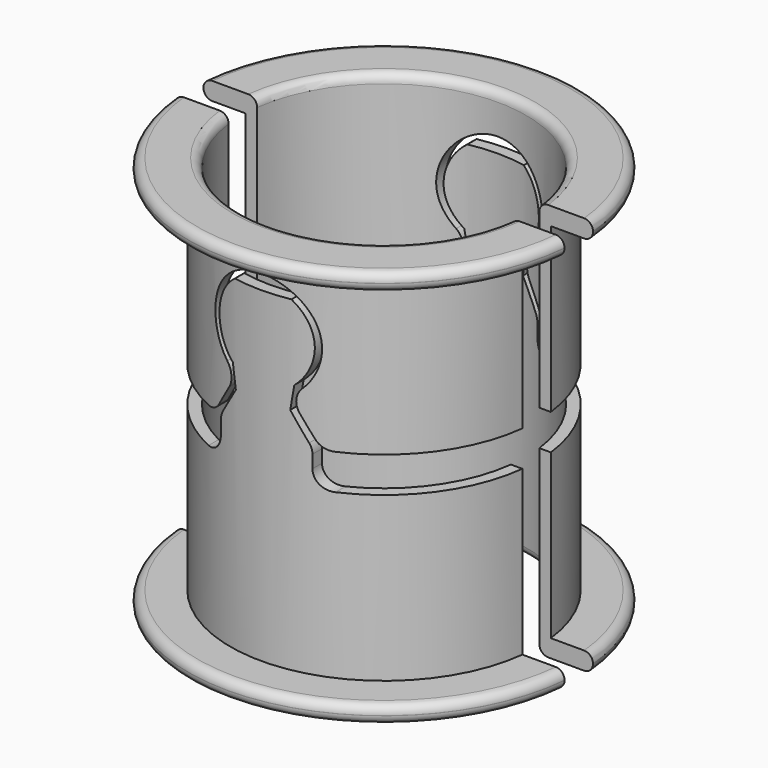
from build123d import *

# Parameters (mm, degrees)
F2_W     = 50.8
F2_H     = 3.175
F3_DEPTH = 25.4
F5_DEPTH = 25.4


with BuildPart() as f1:
    # F0 (on Right) → F1 (revolve)
    with BuildSketch(Plane.YZ):
        with BuildLine():
            ThreePointArc((-12.7, 16.9926), (-12.930624, 17.549376), (-13.4874, 17.78))
            Line((-13.4874, 17.78), (-16.6751, 17.78))
            ThreePointArc((-16.6751, 17.78), (-17.231876, 17.549376), (-17.4625, 16.9926))
            Line((-17.4625, 16.9926), (-17.4625, 16.9799))
            ThreePointArc((-17.4625, 16.9799), (-17.231876, 16.423124), (-16.6751, 16.1925))
            Line((-16.6751, 16.1925), (-13.716, 16.1925))
            Line((-13.716, 16.1925), (-13.716, -16.1925))
            Line((-13.716, -16.1925), (-16.6751, -16.1925))
            ThreePointArc((-16.6751, -16.1925), (-17.231876, -16.423124), (-17.4625, -16.9799))
            Line((-17.4625, -16.9799), (-17.4625, -16.9926))
            ThreePointArc((-17.4625, -16.9926), (-17.231876, -17.549376), (-16.6751, -17.78))
            Line((-16.6751, -17.78), (-13.4874, -17.78))
            ThreePointArc((-13.4874, -17.78), (-12.930624, -17.549376), (-12.7, -16.9926))
            Line((-12.7, -16.9926), (-12.7, 16.9926))
        make_face()
    revolve(axis=Axis((0, 0, 0), (0, 0, -1)))

    # F2 (on Top) → F3 (cut, symmetric)
    with BuildSketch(Plane.XY):
        Rectangle(F2_W, F2_H)
    extrude(amount=F3_DEPTH, both=True, mode=Mode.SUBTRACT)

    # F4 (on Front) → F5 (cut, symmetric)
    with BuildSketch(Plane.XZ):
        with BuildLine():
            Line((25.4, -1.5875), (25.4, 1.5875))
            Line((25.4, 1.5875), (5.634023, 1.5875))
            ThreePointArc((5.634023, 1.5875), (4.871484, 1.784429), (4.299656, 2.325963))
            Line((4.299656, 2.325963), (3.130518, 4.191312))
            ThreePointArc((3.130518, 4.191312), (2.900411, 5.207689), (3.355375, 6.145227))
            ThreePointArc((3.355375, 6.145227), (0, 14.2875), (-3.355375, 6.145227))
            ThreePointArc((-3.355375, 6.145227), (-2.900411, 5.207689), (-3.130518, 4.191312))
            Line((-3.130518, 4.191312), (-4.299656, 2.325963))
            ThreePointArc((-4.299656, 2.325963), (-4.871484, 1.784429), (-5.634023, 1.5875))
            Line((-5.634023, 1.5875), (-25.4, 1.5875))
            Line((-25.4, 1.5875), (-25.4, -1.5875))
            Line((-25.4, -1.5875), (-5.663268, -1.5875))
            ThreePointArc((-5.663268, -1.5875), (-4.549716, -1.126252), (-4.088468, -0.0127))
            Line((-4.088468, -0.0127), (-4.088468, 1.134772))
            ThreePointArc((-4.088468, 1.134772), (-4.027166, 1.569877), (-3.848035, 1.971108))
            Line((-3.848035, 1.971108), (-2.428271, 4.236328))
            Line((-2.428271, 4.236328), (-2.746152, 6.275474))
            ThreePointArc((-2.746152, 6.275474), (-4.25203, 9.669954), (-2.518478, 12.954))
            Line((-2.518478, 12.954), (2.518478, 12.954))
            ThreePointArc((2.518478, 12.954), (4.25203, 9.669954), (2.746152, 6.275474))
            Line((2.746152, 6.275474), (2.428271, 4.236328))
            Line((2.428271, 4.236328), (3.848035, 1.971108))
            ThreePointArc((3.848035, 1.971108), (4.027166, 1.569877), (4.088468, 1.134772))
            Line((4.088468, 1.134772), (4.088468, -0.0127))
            ThreePointArc((4.088468, -0.0127), (4.549716, -1.126252), (5.663268, -1.5875))
            Line((5.663268, -1.5875), (25.4, -1.5875))
        make_face()
    extrude(amount=F5_DEPTH, both=True, mode=Mode.SUBTRACT)


solid = f1.part
